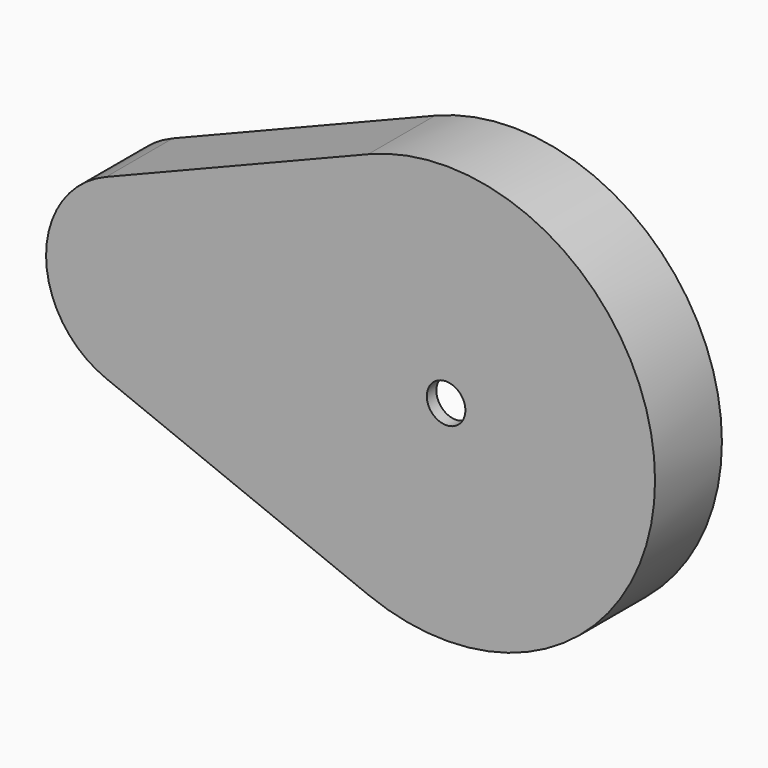
from build123d import *

# Parameters (mm, degrees)
F1_DEPTH = 17.78
F2_T     = -2.54
F3_R     = 4.1
F4_DEPTH = 25.4


with BuildPart() as f1:
    # F0 (on Front) → F1 (new body)
    with BuildSketch(Plane.XZ):
        with BuildLine():
            Line((48.210196, 41.250156), (-7.570196, 18.857214))
            ThreePointArc((-7.570196, 18.857214), (-20.32, 0), (-7.570196, -18.857214))
            Line((-7.570196, -18.857214), (48.210196, -41.250156))
            ThreePointArc((48.210196, -41.250156), (109.22, 0), (48.210196, 41.250156))
        make_face()
    extrude(amount=F1_DEPTH)

    # F2
    f2_openings = [f1.faces().sort_by_distance(p)[0] for p in [
        (50.495469, 0, 0),
    ]]
    offset(amount=F2_T, openings=f2_openings)

    # F3 (on face) → F4 (cut)
    with BuildSketch(Plane.XZ.offset(17.78)):
        with Locations((64.77, 0)):
            Circle(F3_R)
    extrude(amount=-F4_DEPTH, mode=Mode.SUBTRACT)


solid = f1.part
